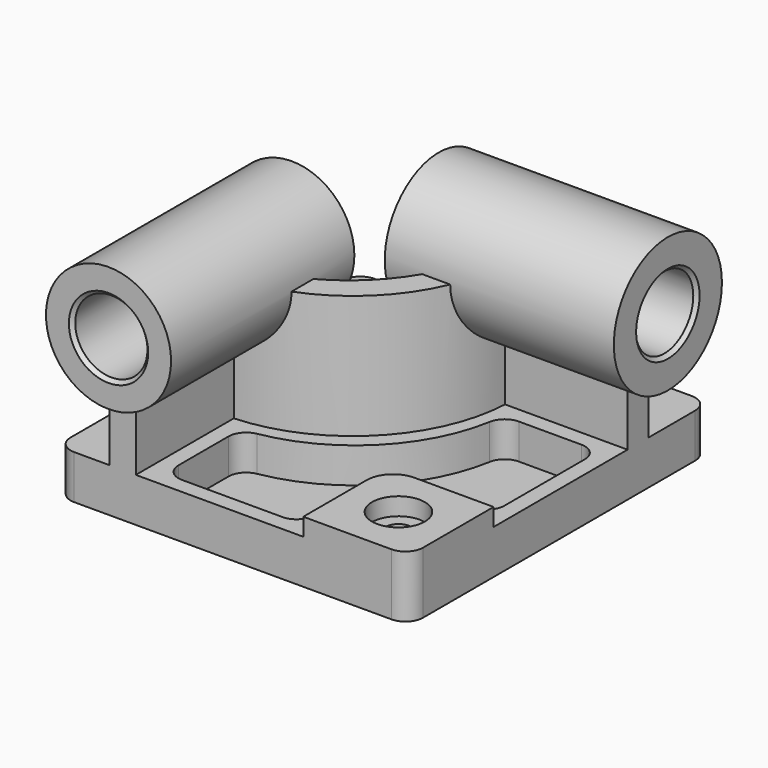
from build123d import *

# Parameters (mm, degrees)
F0_W            = 200
F0_H            = 213
F1_DEPTH        = 25
F3_DEPTH        = 70
F5_R            = 35.5
F6_DEPTH        = 130
F8_R            = 38.333334
F9_DEPTH        = 130
F10_R           = 20.5
F11_DEPTH       = 216.501
F12_R           = 20.5
F13_DEPTH       = 223.001
F14_W           = 60
F14_H           = 60
F15_DEPTH       = 10
F17_D           = 15
F17_CBORE_D     = 30
F17_CBORE_DEPTH = 10
F18_R           = 10
F19_R           = 15
F21_DEPTH       = 20
F22_R           = 10
F23_SIZE2       = 2
F23_SIZE        = 2


with BuildPart() as f1:
    # F0 (on Top) → F1 (new body)
    with BuildSketch(Plane.XY):
        Rectangle(F0_W, F0_H)
    extrude(amount=F1_DEPTH)

    # F2 (on face) → F3 (join)
    with BuildSketch(Plane.XY.offset(25)):
        with BuildLine():
            Line((-70, -26.5), (-70, -106.5))
            Line((-70, -106.5), (-55, -106.5))
            Line((-55, -106.5), (-55, -36.999305))
            ThreePointArc((-55, -36.999305), (4.246212, -10.746212), (30.499305, 48.5))
            Line((30.499305, 48.5), (100, 48.5))
            Line((100, 48.5), (100, 63.5))
            Line((100, 63.5), (20, 63.5))
            ThreePointArc((20, 63.5), (-6.36039, -0.13961), (-70, -26.5))
        make_face()
    extrude(amount=F3_DEPTH)

    # F5 (on offset) → F6 (join)
    with BuildSketch(Plane.XZ.offset(116.5)):
        with Locations((-62.5, 95)):
            Circle(F5_R)
    extrude(amount=-F6_DEPTH)

    # F8 (on offset) → F9 (join)
    with BuildSketch(Plane.YZ.offset(116.5)):
        with Locations((56.5, 95)):
            Circle(F8_R)
    extrude(amount=-F9_DEPTH)

    # F10 (on face) → F11 (cut, through all)
    with BuildSketch(Plane.YZ.offset(116.5)):
        with Locations((56.5, 95)):
            Circle(F10_R)
    extrude(amount=-F11_DEPTH, mode=Mode.SUBTRACT)

    # F12 (on face) → F13 (cut, through all)
    with BuildSketch(Plane.XZ.offset(116.5)):
        with Locations((-62.5, 95)):
            Circle(F12_R)
    extrude(amount=-F13_DEPTH, mode=Mode.SUBTRACT)

    # F14 (on face) → F15 (join)
    with BuildSketch(Plane.XY.offset(25)):
        with Locations((70, -76.5)):
            Rectangle(F14_W, F14_H)
    extrude(amount=F15_DEPTH)

    # F17 (through all)
    with Locations(Plane.XY.offset(35)):
        with Locations((70, -76.5)):
            CounterBoreHole(F17_D / 2, F17_CBORE_D / 2, F17_CBORE_DEPTH)

    # F18
    f18_edges = [f1.edges().sort_by_distance(p)[0] for p in [
        (100, 106.5, 12.5),
        (100, -106.5, 17.5),
        (-100, -106.5, 12.5),
        (-100, 106.5, 12.5),
    ]]
    fillet(f18_edges, radius=F18_R)

    # F19
    f19_edges = [f1.edges().sort_by_distance(p)[0] for p in [
        (40, -46.5, 30),
    ]]
    fillet(f19_edges, radius=F19_R)

    # F20 (on face) → F21 (cut)
    with BuildSketch(Plane.XY.offset(25)):
        with BuildLine():
            Line((-46, -43.195626), (-46, -97.5))
            Line((-46, -97.5), (31, -97.5))
            Line((31, -97.5), (31, -62.762026))
            ThreePointArc((31, -62.762026), (38.005991, -44.505991), (56.262026, -37.5))
            Line((56.262026, -37.5), (91, -37.5))
            Line((91, -37.5), (91, 39.5))
            Line((91, 39.5), (36.695626, 39.5))
            ThreePointArc((36.695626, 39.5), (10.610173, -17.110173), (-46, -43.195626))
        make_face()
    extrude(amount=-F21_DEPTH, mode=Mode.SUBTRACT)

    # F22
    f22_edges = [f1.edges().sort_by_distance(p)[0] for p in [
        (36.695626, 39.5, 15),
        (-46, -43.195626, 15),
        (91, 39.5, 15),
        (91, -37.5, 15),
        (31, -97.5, 15),
        (-46, -97.5, 15),
    ]]
    fillet(f22_edges, radius=F22_R)

    # F23
    f23_edges = [f1.edges().sort_by_distance(p)[0] for p in [
        (-83, -116.5, 95),
        (116.5, 36, 95),
        (-13.5, 36, 95),
        (-83, 13.5, 95),
    ]]
    chamfer(f23_edges, length=F23_SIZE, length2=F23_SIZE2)


solid = f1.part
